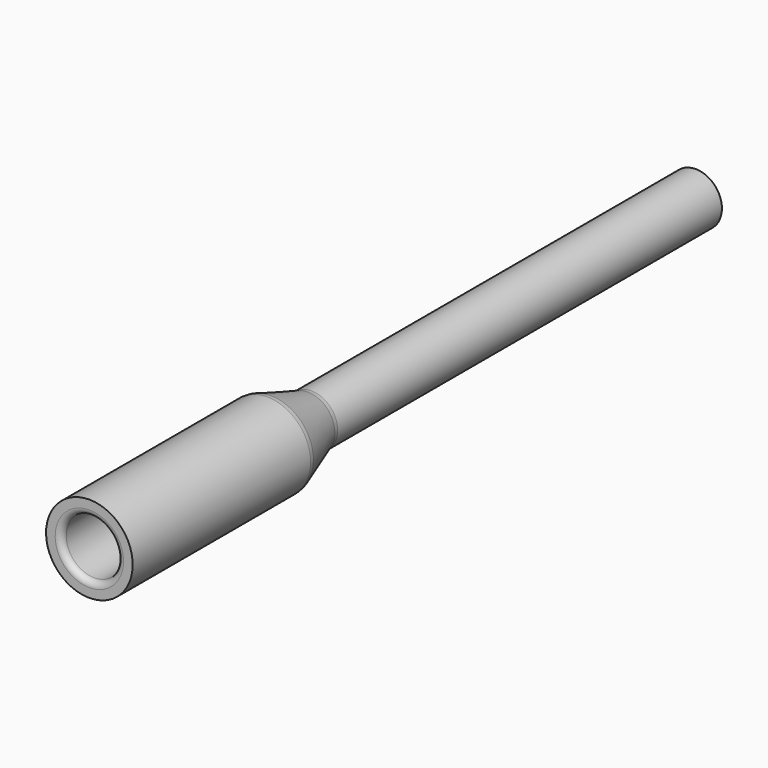
from build123d import *

# Parameters (mm, degrees)
F2_R     = 2.2337294629
F3_DEPTH = 94.1962972283
F4_R     = 5.08


with BuildPart() as f1:
    # F0 (on Right) → F1 (revolve)
    with BuildSketch(Plane.YZ):
        Polygon((87.180994451, 6.4897), (100.203, 6.4897), (100.203, 6.0571772046), (181.6655695438, 6.0571772046), (181.6655695438, 9.5376558602), (100.203, 9.5376558602), (81.7666972255, 15.7631933689), (0, 15.7631933689), (0, 10.2108), (6.6675017588, 10.2108), (76.3524, 10.2108), align=None)
    revolve(axis=Axis((0, 3.5269334912, 0), (0, 1, 0)))

    # F2
    f2_edges = [f1.edges().sort_by_distance(p)[0] for p in [
        (0, 0, -10.2108),
    ]]
    fillet(f2_edges, radius=F2_R)

    # F3 (add): a face of the model
    f3_faces = [f1.faces().sort_by_distance(p)[0] for p in [
        (0, 181.6655695438, -6.3269428501),
    ]]
    extrude(f3_faces, amount=F3_DEPTH)

    # F4
    f4_edges = [f1.edges().sort_by_distance(p)[0] for p in [
        (0, 81.766697, -15.763193),
        (0, 100.203, -9.537656),
    ]]
    fillet(f4_edges, radius=F4_R)


solid = f1.part
